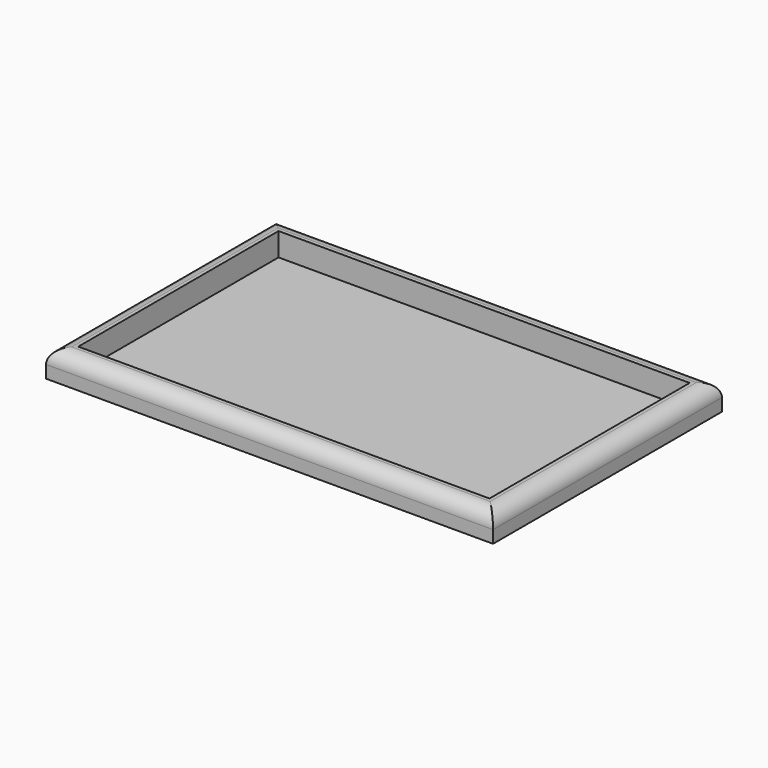
from build123d import *

# Parameters (mm, degrees)
F0_W     = 158.75
F0_H     = 101.6
F0_W_2   = 146.05
F0_H_2   = 88.9
F1_DEPTH = 9.525
F2_R     = 5.08
F3_DEPTH = 1.27


with BuildPart() as f1:
    # F0 (on Top) → F1 (new body)
    with BuildSketch(Plane.XY):
        Rectangle(F0_W, F0_H)
        Rectangle(F0_W_2, F0_H_2, mode=Mode.SUBTRACT)
    extrude(amount=F1_DEPTH)

    # F2
    f2_edges = [f1.edges().sort_by_distance(p)[0] for p in [
        (-79.375, 0, 9.525),
        (0, -50.8, 9.525),
        (79.375, 0, 9.525),
        (0, 50.8, 9.525),
    ]]
    fillet(f2_edges, radius=F2_R)

    # F0 (on Top) → F3 (join)
    with BuildSketch(Plane.XY):
        Rectangle(F0_W_2, F0_H_2)
    extrude(amount=F3_DEPTH)


solid = f1.part
